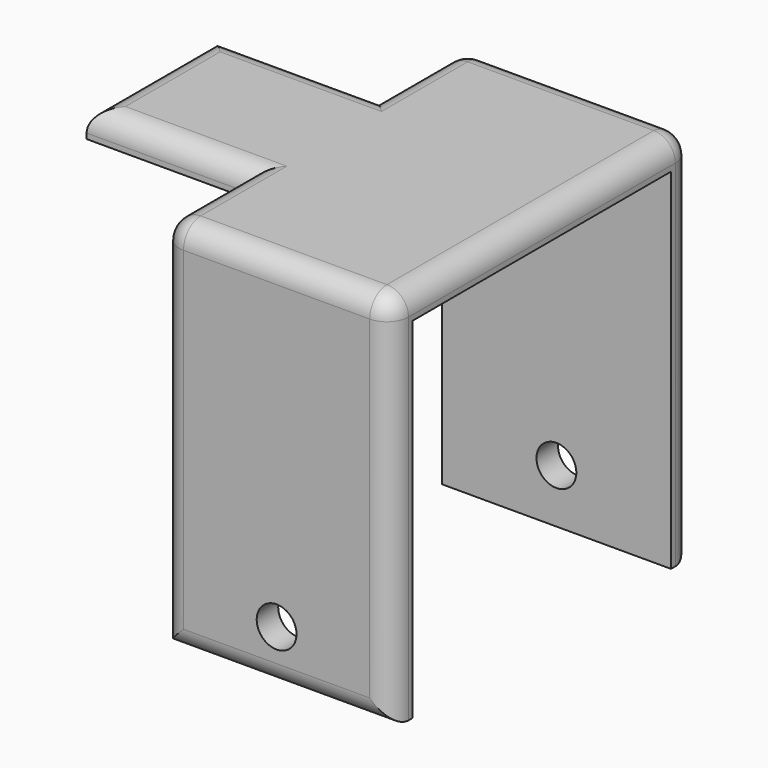
from build123d import *

# Parameters (mm, degrees)
F0_W     = 54.107094341
F0_H     = 88.9
F1_DEPTH = 6.35
F2_W     = 54.107094341
F2_H     = 6.35
F3_DEPTH = 76.2
F4_W     = 54.107094341
F4_H     = 88.9
F5_DEPTH = 6.35
F6_R     = 4.699
F7_DEPTH = 109.22
F8_W     = 38.1
F8_H     = 6.35
F9_DEPTH = 38.1
F10_R    = 5.08


with BuildPart() as f1:
    # F0 (on Front) → F1 (new body)
    with BuildSketch(Plane.XZ):
        Rectangle(F0_W, F0_H)
    extrude(amount=F1_DEPTH)

    # F2 (on face) → F3 (join)
    with BuildSketch(Plane(origin=(0, 0, 0), x_dir=(-1, 0, 0), z_dir=(0, 1, 0))):
        with Locations((0, 41.275)):
            Rectangle(F2_W, F2_H)
    extrude(amount=F3_DEPTH)

    # F4 (on face) → F5 (join)
    with BuildSketch(Plane(origin=(0, 76.2, 0), x_dir=(-1, 0, 0), z_dir=(0, 1, 0))):
        Rectangle(F4_W, F4_H)
    extrude(amount=F5_DEPTH)

    # F6 (on face) → F7 (cut)
    with BuildSketch(Plane(origin=(0, 82.55, 0), x_dir=(-1, 0, 0), z_dir=(0, 1, 0))):
        with Locations((0, -31.75)):
            Circle(F6_R)
    extrude(amount=-F7_DEPTH, mode=Mode.SUBTRACT)

    # F8 (on face) → F9 (join)
    with BuildSketch(Plane(origin=(-27.0535471705, 0, 0), x_dir=(0, -1, 0), z_dir=(-1, 0, 0))):
        with Locations((-38.1, 41.275)):
            Rectangle(F8_W, F8_H)
    extrude(amount=F9_DEPTH)

    # F10
    f10_edges = [f1.edges().sort_by_distance(p)[0] for p in [
        (27.053547, 82.55, 0),
        (27.053547, 38.1, 44.45),
        (-27.053547, 82.55, 0),
        (-27.053547, -6.35, 0),
        (27.053547, -6.35, 0),
        (0, -6.35, -44.45),
        (0, 82.55, -44.45),
        (0, -6.35, 44.45),
        (0, 82.55, 44.45),
        (-27.053547, 69.85, 44.45),
        (-27.053547, 6.35, 44.45),
        (-65.153547, 38.1, 44.45),
        (-46.103547, 19.05, 44.45),
        (-46.103547, 57.15, 44.45),
    ]]
    fillet(f10_edges, radius=F10_R)


solid = f1.part
